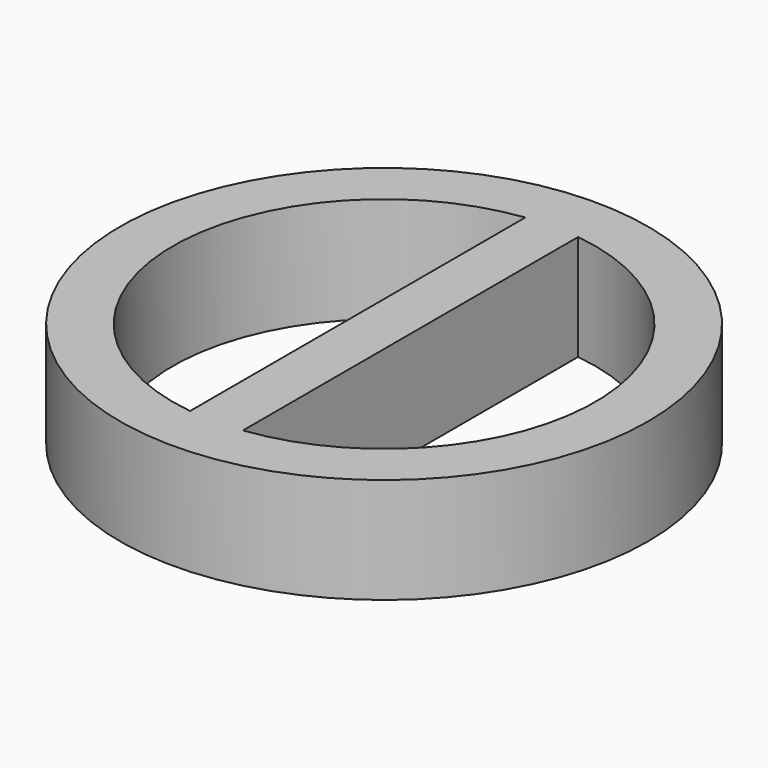
from build123d import *

# Parameters (mm, degrees)
F0_R     = 25
F1_DEPTH = 10
F3_DEPTH = 10


with BuildPart() as f1:
    # F0 (on Top) → F1 (new body)
    with BuildSketch(Plane.XY):
        Circle(F0_R)
    extrude(amount=F1_DEPTH)

    # F2 (on face) → F3 (cut)
    with BuildSketch(Plane.XY.offset(10)):
        with BuildLine():
            ThreePointArc((-2.499999, 19.843135), (-20, 0), (-2.499999, -19.843135))
            Line((-2.499999, -19.843135), (-2.499999, 19.843135))
        make_face()
        with BuildLine():
            ThreePointArc((2.500001, -19.843142), (20.000003, -7e-06), (2.500001, 19.843128))
            Line((2.500001, 19.843128), (2.500001, -19.843142))
        make_face()
    extrude(amount=-F3_DEPTH, mode=Mode.SUBTRACT)


solid = f1.part
